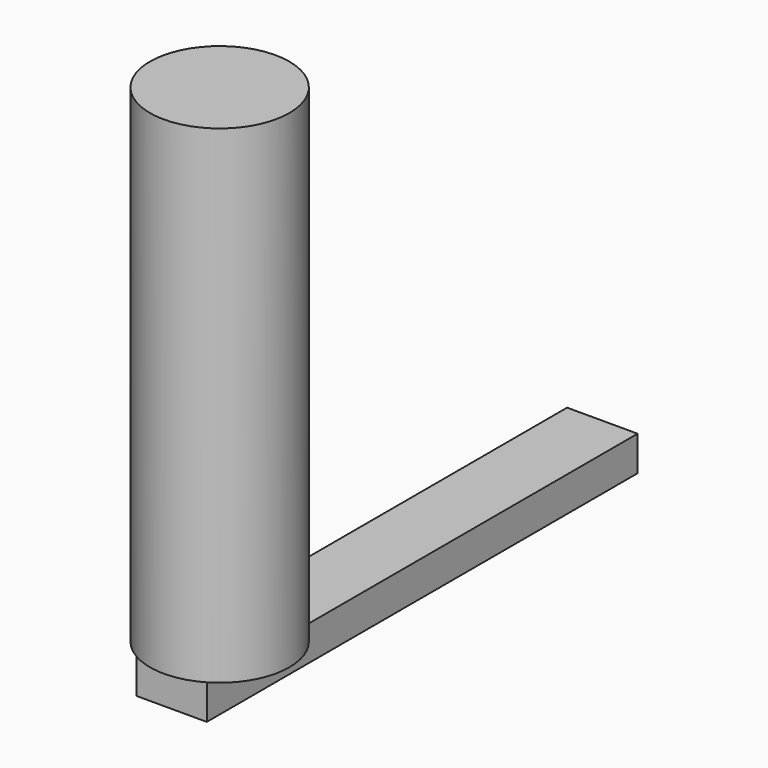
from build123d import *

# Parameters (mm, degrees)
F0_R      = 5
F1_DEPTH  = 35
F2_W      = 5.05839
F2_H      = 18.62628
F3_DEPTH  = 2.5
F3_FACE_W = 5.05839
F3_FACE_H = 2.5
F4_DEPTH  = 20


with BuildPart() as f1:
    # F0 (on Top) → F1 (new body)
    with BuildSketch(Plane.XY):
        Circle(F0_R)
    extrude(amount=F1_DEPTH)

    # F2 (on face) → F3 (join)
    with BuildSketch(Plane(origin=(0, 0, 0), x_dir=(1, 0, 0), z_dir=(0, 0, -1))):
        with Locations((0, -5)):
            Rectangle(F2_W, F2_H)
    extrude(amount=F3_DEPTH)

    # F3_face (on face) → F4 (join)
    with BuildSketch(Plane(origin=(0, 14.31314, -1.25), x_dir=(-1, 0, 0), z_dir=(0, 1, 0))):
        Rectangle(F3_FACE_W, F3_FACE_H)
    extrude(amount=F4_DEPTH)


solid = f1.part
